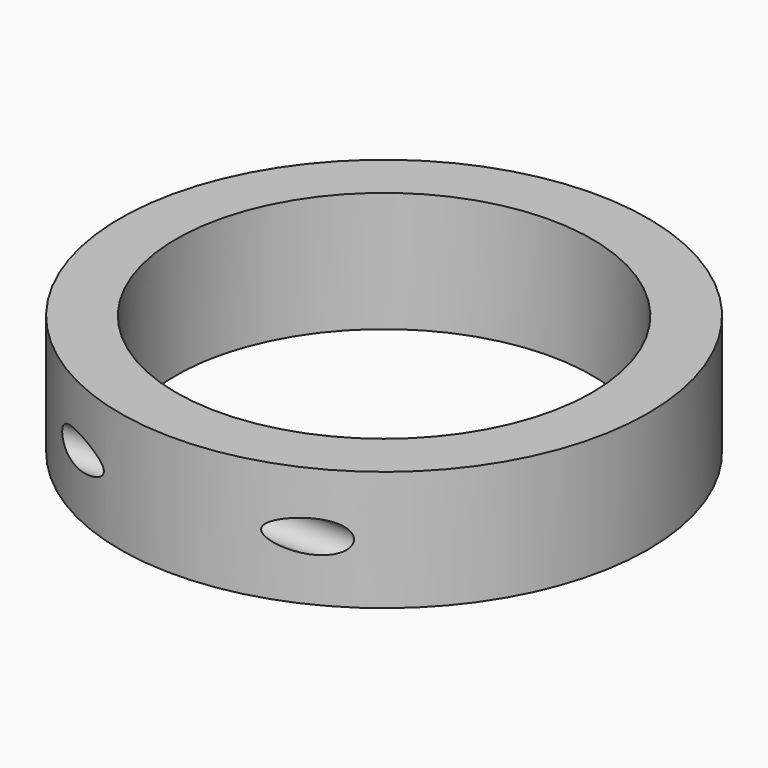
from build123d import *

# Parameters (mm, degrees)
F0_R          = 33
F0_R_2        = 26
F1_DEPTH      = 15
F2_R          = 2
F3_DEPTH      = 33.001
F3_DEPTH_BACK = 33.001


with BuildPart() as f1:
    # F0 (on Top) → F1 (new body)
    with BuildSketch(Plane.XY):
        Circle(F0_R)
        Circle(F0_R_2, mode=Mode.SUBTRACT)
    extrude(amount=F1_DEPTH)

    # F2 (on Right) → F3 (cut, two sides)
    with BuildSketch(Plane.YZ) as f3_sk:
        with Locations((29.5, 7.5)):
            Circle(F2_R)
        with Locations((-29.5, 7.5)):
            Circle(F2_R)
    extrude(amount=-F3_DEPTH, mode=Mode.SUBTRACT)
    extrude(f3_sk.sketch, amount=F3_DEPTH_BACK, mode=Mode.SUBTRACT)


solid = f1.part
